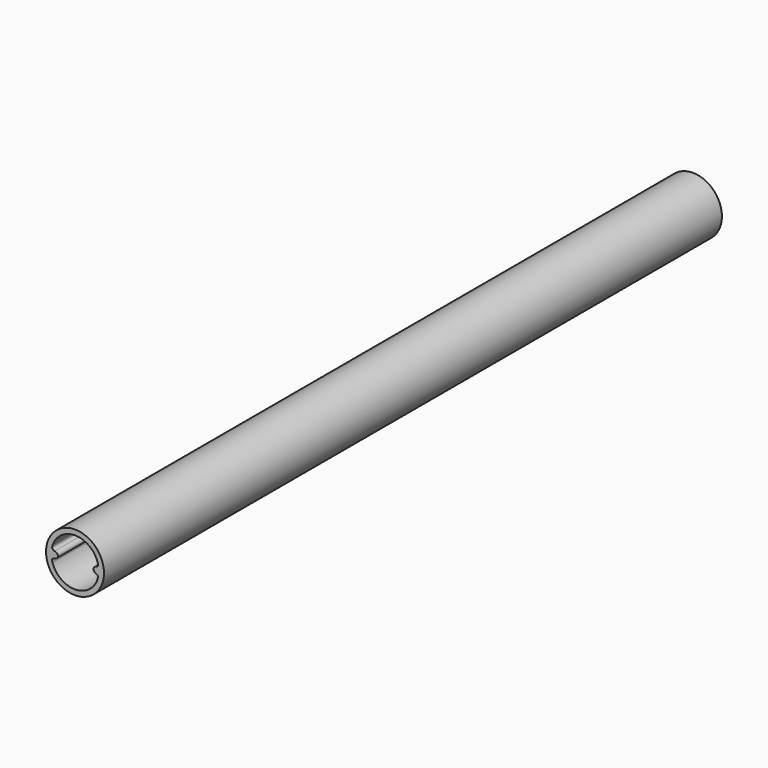
from build123d import *

# Parameters (mm, degrees)
F0_R     = 2.8575
F1_DEPTH = 76.2


with BuildPart() as f1:
    # F0 (on Front) → F1 (new body)
    with BuildSketch(Plane.XZ):
        Circle(F0_R)
        with BuildLine():
            ThreePointArc((2.2158932254, -0.7810041381), (-0.0108721198, -2.3494748449), (-2.2230263162, -0.7604631797))
            add(Edge.make_bspline(
                [(-1.9565056124, -0.3121407177), (-2.064354104, -0.3565578185), (-2.2804123154, -0.3438770229), (-2.2617702787, -0.5860911241), (-2.2230263162, -0.7604631797)],
                knots=[0, 0, 0, 0, 0.4650395827, 1, 1, 1, 1], degree=3))
            add(Edge.make_bspline(
                [(-1.9565056124, -0.3121407177), (-0.979271373, 0.0434105208), (-2.0072527367, 0.3283499777)],
                knots=[5.2119643834, 5.2119643834, 5.2119643834, 7.4599503241, 7.4599503241, 7.4599503241], degree=2, weights=[1, 0.4320849083, 1]))
            add(Edge.make_bspline(
                [(-2.2296359452, 0.740860177), (-2.2572920948, 0.5667277404), (-2.2582723573, 0.4930266235), (-2.1369865806, 0.3520629252), (-2.0072527367, 0.3283499777)],
                knots=[0.0023042789, 0.0023042789, 0.0023042789, 0.0023042789, 0.5006658688, 1, 1, 1, 1], degree=3))
            ThreePointArc((-2.2296359452, 0.740860177), (-0.0012775115, 2.3494996527), (2.2288289599, 0.7432844124))
            add(Edge.make_bspline(
                [(2.2288289599, 0.7432844124), (2.2599289461, 0.6474842427), (2.3070196821, 0.4477496228), (2.1852073259, 0.3365375994), (2.0688382449, 0.3067882553)],
                knots=[0, 0, 0, 0, 0.5132592047, 1, 1, 1, 1], degree=3))
            add(Edge.make_bspline(
                [(2.0688382449, 0.3067882553), (1.3650161474, 0.0164649297), (2.0523471758, -0.2909174073)],
                knots=[5.2664762139, 5.2664762139, 5.2664762139, 7.2631110564, 7.2631110564, 7.2631110564], degree=2, weights=[1, 0.5417173816, 1]))
            add(Edge.make_bspline(
                [(2.2158932254, -0.7810041381), (2.2530183234, -0.5918044332), (2.3199436301, -0.4196936753), (2.1656945144, -0.3743167204), (2.0523471758, -0.2909174073)],
                knots=[0, 0, 0, 0, 0.5338085549, 1, 1, 1, 1], degree=3))
        make_face(mode=Mode.SUBTRACT)
    extrude(amount=F1_DEPTH)


solid = f1.part
